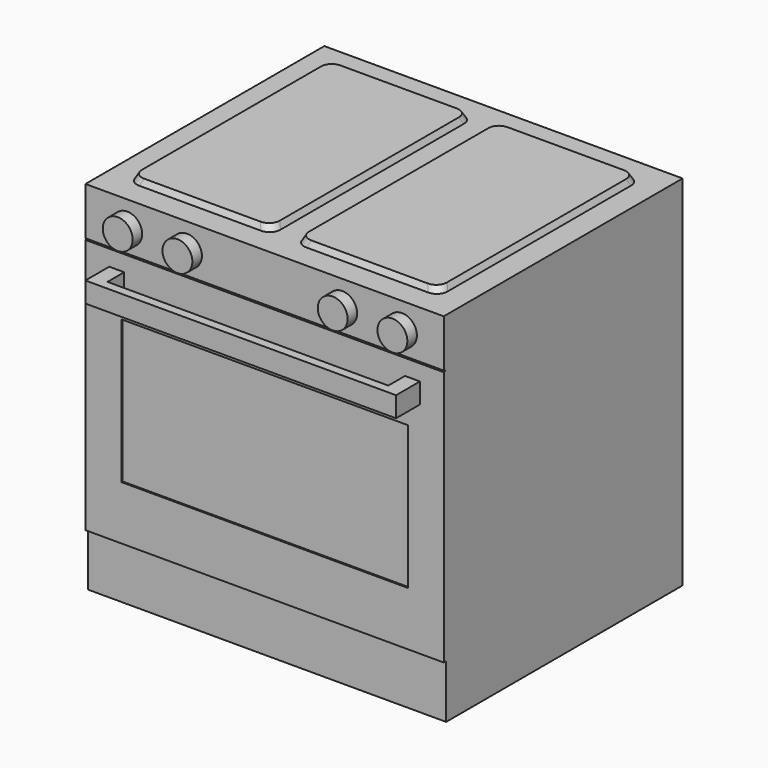
from build123d import *

# Parameters (mm, degrees)
F1_DEPTH  = 381
F2_W      = 609.6
F2_H      = 304.8
F3_DEPTH  = 3.175
F6_DEPTH  = 21.59
F7_R      = 31.75
F8_DEPTH  = 25.4
F9_W      = 304.8
F9_H      = 533.4
F10_DEPTH = 12.7
F10_TAPER = 25
F11_R     = 25.4


with BuildPart() as f1:
    # F0 (on Right) → F1 (new body, symmetric)
    with BuildSketch(Plane.YZ):
        Polygon((-628.65, 0), (0, 0), (0, 762), (-635, 762), (-635, 660.4), (-631.825, 660.4), (-631.825, 657.225), (-635, 657.225), (-635, 113.8153895736), (-628.65, 113.8153895736), align=None)
    extrude(amount=F1_DEPTH, both=True)

    # F2 (on face) → F3 (cut)
    with BuildSketch(Plane.XZ.offset(635)):
        with Locations((0, 381)):
            Rectangle(F2_W, F2_H)
    extrude(amount=-F3_DEPTH, mode=Mode.SUBTRACT)

    # F5 (on offset) → F6 (join, symmetric)
    with BuildSketch(Plane.XY.offset(601.98)):
        Polygon((-330.3532366753, -698.5), (330.3532366753, -698.5), (330.3532366753, -609.3355417252), (298.6032366753, -609.3355417252), (298.6032366753, -679.45), (-298.6032366753, -679.45), (-298.6032366753, -609.3355417252), (-330.3532366753, -609.3355417252), align=None)
    extrude(amount=F6_DEPTH, both=True)

    # F7 (on face) → F8 (join)
    with BuildSketch(Plane.XZ.offset(635)):
        with Locations((-292.1, 707.4763774872)):
            Circle(F7_R)
        with Locations((-165.1, 707.4763774872)):
            Circle(F7_R)
        with Locations((165.1, 707.4763774872)):
            Circle(F7_R)
        with Locations((292.1, 707.4763774872)):
            Circle(F7_R)
    extrude(amount=F8_DEPTH)

    # F9 (on face) → F10 (join)
    with BuildSketch(Plane.XY.offset(762)):
        with Locations((-177.8, -317.5)):
            Rectangle(F9_W, F9_H)
        with Locations((177.8, -317.5)):
            Rectangle(F9_W, F9_H)
    extrude(amount=F10_DEPTH, taper=F10_TAPER)

    # F11
    f11_edges = [f1.edges().sort_by_distance(p)[0] for p in [
        (-327.238946, -581.238946, 768.35),
        (-28.361054, -581.238946, 768.35),
        (28.361054, -581.238946, 768.35),
        (28.361054, -53.761054, 768.35),
        (-327.238946, -53.761054, 768.35),
        (327.238946, -581.238946, 768.35),
        (327.238946, -53.761054, 768.35),
        (-28.361054, -53.761054, 768.35),
    ]]
    fillet(f11_edges, radius=F11_R)


solid = f1.part
